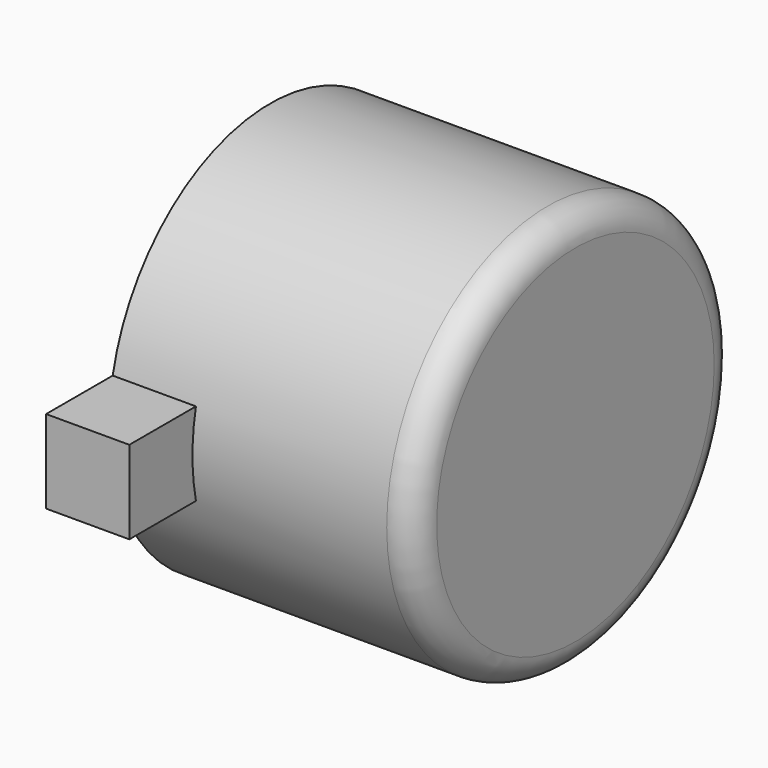
from build123d import *

# Parameters (mm, degrees)
F0_R     = 3.625
F1_DEPTH = 2.75
F2_R     = 0.5
F3_T     = -1.25
F5_DEPTH = 1.5


with BuildPart() as f1:
    # F0 (on Right) → F1 (new body, symmetric)
    with BuildSketch(Plane.YZ):
        Circle(F0_R)
    extrude(amount=F1_DEPTH, both=True)

    # F2
    f2_edges = [f1.edges().sort_by_distance(p)[0] for p in [
        (2.75, -3.625, 0),
    ]]
    fillet(f2_edges, radius=F2_R)

    # F3
    f3_openings = [f1.faces().sort_by_distance(p)[0] for p in [
        (-2.75, 0, 0),
    ]]
    offset(amount=F3_T, openings=f3_openings)

    # F4 (on face) → F5 (join)
    with BuildSketch(Plane(origin=(-2.75, 0, 0), x_dir=(0, -1, 0), z_dir=(-1, 0, 0))):
        with BuildLine():
            Line((3.546565, -0.75), (5.046565, -0.75))
            Line((5.046565, -0.75), (5.046565, 0.75))
            Line((5.046565, 0.75), (3.546565, 0.75))
            ThreePointArc((3.546565, 0.75), (3.625, 0), (3.546565, -0.75))
        make_face()
        with BuildLine():
            Line((-3.546565, 0.75), (-5.046565, 0.75))
            Line((-5.046565, 0.75), (-5.046565, -0.75))
            Line((-5.046565, -0.75), (-3.546565, -0.75))
            ThreePointArc((-3.546565, -0.75), (-3.625, 0), (-3.546565, 0.75))
        make_face()
    extrude(amount=-F5_DEPTH)


solid = f1.part
